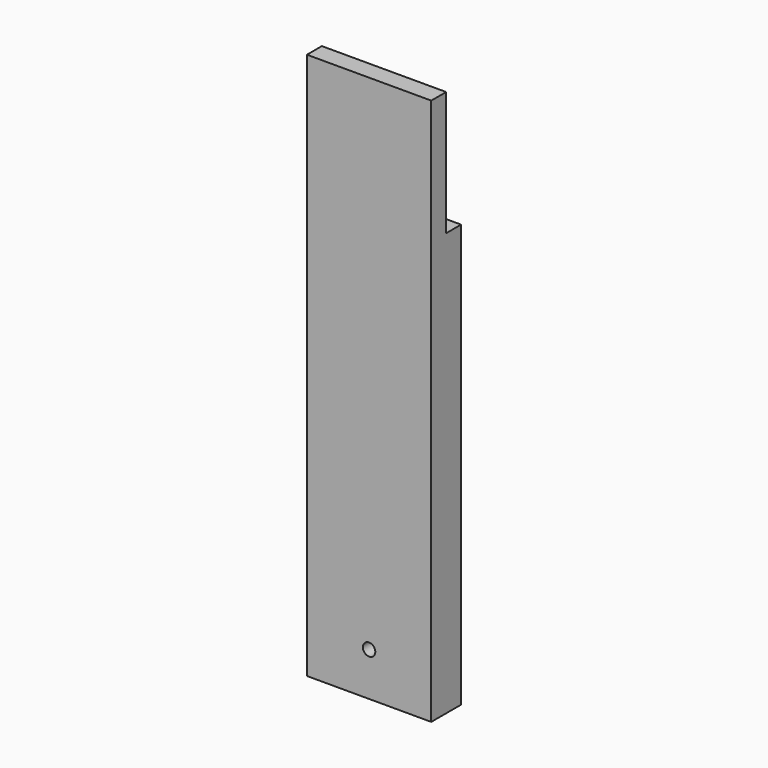
from build123d import *

# Parameters (mm, degrees)
F0_W     = 127
F0_H     = 558.8
F1_DEPTH = 38.1
F2_W     = 19.05
F2_H     = 127
F3_DEPTH = 152.4
F4_R     = 6.35
F5_DEPTH = 38.101


with BuildPart() as f1:
    # F0 (on Front) → F1 (new body)
    with BuildSketch(Plane.XZ):
        Rectangle(F0_W, F0_H)
    extrude(amount=F1_DEPTH)

    # F2 (on face) → F3 (cut)
    with BuildSketch(Plane(origin=(-63.5, 0, 0), x_dir=(0, -1, 0), z_dir=(-1, 0, 0))):
        with Locations((9.525, 215.9)):
            Rectangle(F2_W, F2_H)
    extrude(amount=-F3_DEPTH, mode=Mode.SUBTRACT)

    # F4 (on face) → F5 (cut, through all)
    with BuildSketch(Plane.XZ.offset(38.1)):
        with Locations((0, -234.95)):
            Circle(F4_R)
    extrude(amount=-F5_DEPTH, mode=Mode.SUBTRACT)


solid = f1.part
